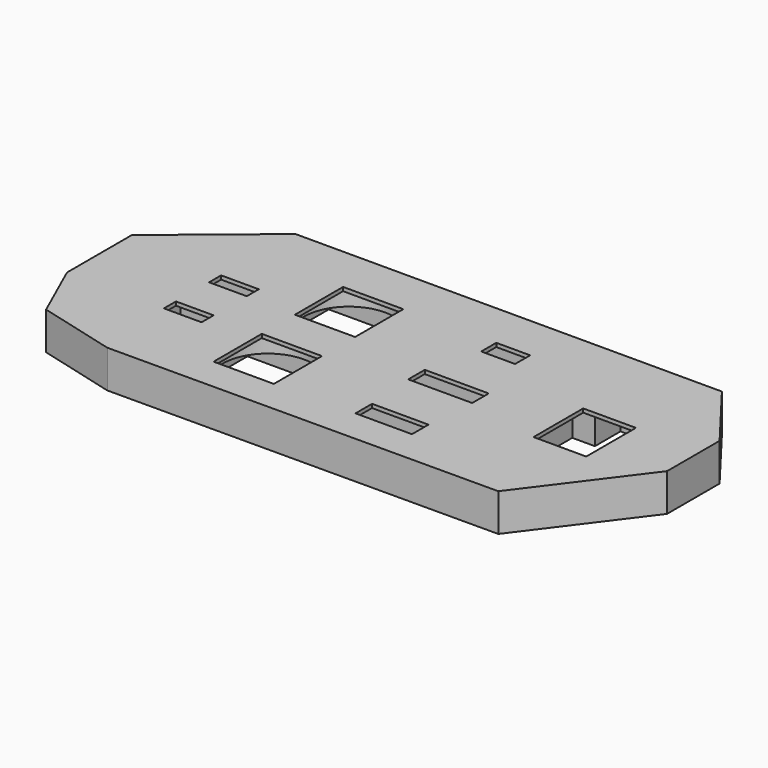
from build123d import *

# Parameters (mm, degrees)
PAD_DEPTH       = 10
SKETCH001_W     = 10
SKETCH001_H     = 4
SKETCH001_W_2   = 15
SKETCH001_H_2   = 5.5
SKETCH001_W_3   = 9
SKETCH001_H_3   = 5
SKETCH001_W_4   = 14
SKETCH001_H_4   = 16.5
SKETCH001_W_5   = 16
SKETCH001_H_5   = 16
SKETCH001_W_6   = 17
POCKET_DEPTH    = 1
SKETCH002_R     = 12
POCKET001_DEPTH = 9
SKETCH003_W     = 41
SKETCH003_H     = 19
POCKET002_DEPTH = 9
SKETCH004_W     = 35
SKETCH004_H     = 12.5
POCKET003_DEPTH = 9
SKETCH005_W     = 41
SKETCH005_H     = 21
POCKET004_DEPTH = 9
SKETCH006_W     = 14
SKETCH006_H     = 12
POCKET005_DEPTH = 9
POCKET006_DEPTH = 9
SKETCH010_W     = 31.5
SKETCH010_H     = 26.5
POCKET007_DEPTH = 5
SKETCH011_W     = 27
SKETCH011_H     = 10
POCKET008_DEPTH = 9


with BuildPart() as part:
    # Sketch → Pad (new body)
    with BuildSketch(Plane.XY):
        Polygon((113.242246, 7.136342), (-0.047754, 7.136342), (-26.28226, -14.428265), (-26.28226, -35.968265), (-19.26312, -51.681819), (1.360962, -57.138638), (104.980466, -56.818034), (126.692617, -27.88965), (126.692617, -10.44965), align=None)
    extrude(amount=PAD_DEPTH)

    # Sketch001 (on Face11 of Pad) → Pocket (cut)
    with BuildSketch(Plane.XY.offset(10)):
        with Locations((4.5, -19)):
            Rectangle(SKETCH001_W, SKETCH001_H)
        with Locations((4.5, -34)):
            Rectangle(SKETCH001_W, SKETCH001_H)
        with Locations((67.5, -45.25)):
            Rectangle(SKETCH001_W_2, SKETCH001_H_2)
        with Locations((67.5, -7.5)):
            Rectangle(SKETCH001_W_3, SKETCH001_H_3)
        with Locations((102.5, -25)):
            Rectangle(SKETCH001_W_4, SKETCH001_H_4)
        with Locations((30.5, -13.25)):
            Rectangle(SKETCH001_W_5, SKETCH001_H_5)
        with Locations((30.5, -40.25)):
            Rectangle(SKETCH001_W_5, SKETCH001_H_5)
        with Locations((67.5, -26.5)):
            Rectangle(SKETCH001_W_6, SKETCH001_H_2)
    extrude(amount=-POCKET_DEPTH, mode=Mode.SUBTRACT)

    # Sketch002 (on Face4 of Pocket) → Pocket001 (cut)
    with BuildSketch(Plane(origin=(0, 0, 0), x_dir=(1, 0, 0), z_dir=(0, 0, -1))):
        with Locations((30.5, 40.25)):
            Circle(SKETCH002_R)
        with Locations((30.5, 13.25)):
            Circle(SKETCH002_R)
    extrude(amount=-POCKET001_DEPTH, mode=Mode.SUBTRACT)

    # Sketch003 (on Face4 of Pocket001) → Pocket002 (cut)
    with BuildSketch(Plane(origin=(0, 0, 0), x_dir=(1, 0, 0), z_dir=(0, 0, -1))):
        with Locations((67.481461, 7.5)):
            Rectangle(SKETCH003_W, SKETCH003_H)
    extrude(amount=-POCKET002_DEPTH, mode=Mode.SUBTRACT)

    # Sketch004 (on Face4 of Pocket002) → Pocket003 (cut)
    with BuildSketch(Plane(origin=(0, 0, 0), x_dir=(1, 0, 0), z_dir=(0, 0, -1))):
        with Locations((67.501572, 26.486867)):
            Rectangle(SKETCH004_W, SKETCH004_H)
    extrude(amount=-POCKET003_DEPTH, mode=Mode.SUBTRACT)

    # Sketch005 (on Face4 of Pocket003) → Pocket004 (cut)
    with BuildSketch(Plane(origin=(0, 0, 0), x_dir=(1, 0, 0), z_dir=(0, 0, -1))):
        with Locations((67.486454, 45.259564)):
            Rectangle(SKETCH005_W, SKETCH005_H)
    extrude(amount=-POCKET004_DEPTH, mode=Mode.SUBTRACT)

    # Sketch006 (on Face4 of Pocket004) → Pocket005 (cut)
    with BuildSketch(Plane(origin=(0, 0, 0), x_dir=(1, 0, 0), z_dir=(0, 0, -1))):
        with Locations((4.502728, 34.011238)):
            Rectangle(SKETCH006_W, SKETCH006_H)
    extrude(amount=-POCKET005_DEPTH, mode=Mode.SUBTRACT)

    # Sketch009 (on Face4 of Pocket005) → Pocket006 (cut)
    with BuildSketch(Plane(origin=(0, 0, 0), x_dir=(1, 0, 0), z_dir=(0, 0, -1))):
        Polygon((90, 36.5), (96, 36.5), (96, 45), (107, 45), (107, 36.5), (113, 36.5), (113, 13.5), (107, 13.5), (107, 5), (96, 5), (96, 13.5), (90, 13.5), align=None)
    extrude(amount=-POCKET006_DEPTH, mode=Mode.SUBTRACT)

    # Sketch010 (on Face4 of Pocket005) → Pocket007 (cut)
    with BuildSketch(Plane(origin=(0, 0, 0), x_dir=(1, 0, 0), z_dir=(0, 0, -1))):
        with Locations((30.25, 40.25)):
            Rectangle(SKETCH010_W, SKETCH010_H)
        with Locations((30.25, 13.25)):
            Rectangle(SKETCH010_W, SKETCH010_H)
    extrude(amount=-POCKET007_DEPTH, mode=Mode.SUBTRACT)

    # Sketch011 (on Face4 of Pocket007) → Pocket008 (cut)
    with BuildSketch(Plane(origin=(0, 0, 0), x_dir=(1, 0, 0), z_dir=(0, 0, -1))):
        with Locations((4.5, 19)):
            Rectangle(SKETCH011_W, SKETCH011_H)
    extrude(amount=-POCKET008_DEPTH, mode=Mode.SUBTRACT)


solid = part.part
